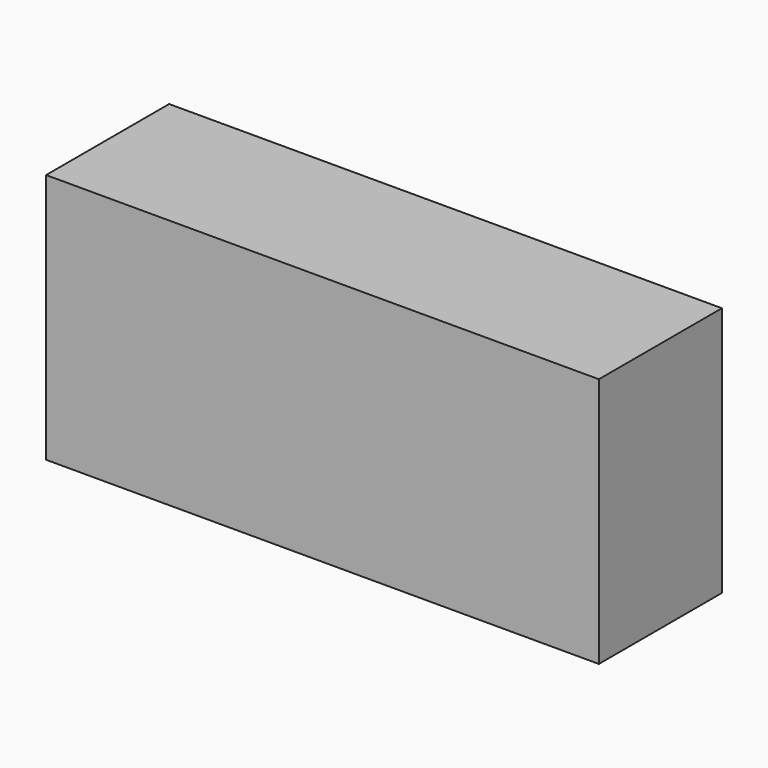
from build123d import *

# Parameters (mm, degrees)
F0_W     = 3.175
F0_H     = 41.3954239339
F0_W_2   = 84.9350669503
F1_DEPTH = 25.4


with BuildPart() as f1:
    # F0 (on Front) → F1 (new body)
    with BuildSketch(Plane.XZ):
        with Locations((-27.8587740421, 2.1123280749)):
            Rectangle(F0_W, F0_H)
        with Locations((16.196259433, 2.1123280749)):
            Rectangle(F0_W_2, F0_H)
        with Locations((60.2512929082, 2.1123280749)):
            Rectangle(F0_W, F0_H)
    extrude(amount=F1_DEPTH)


solid = f1.part
